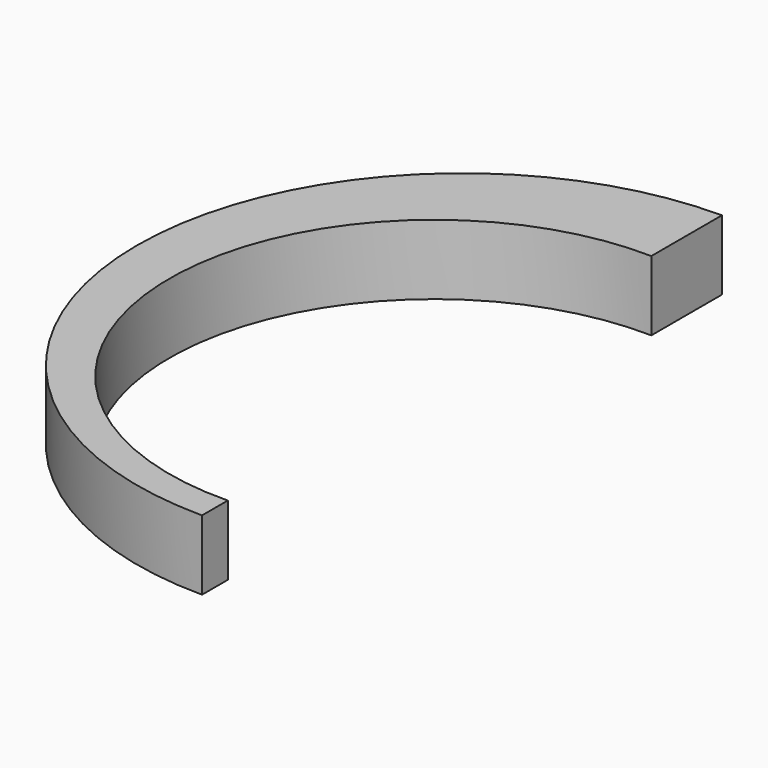
from build123d import *

# Parameters (mm, degrees)
F0_R     = 116.287792
F1_DEPTH = 25
F2_R     = 94.758514
F3_DEPTH = 25.001
F5_DEPTH = 25.001


with BuildPart() as f1:
    # F0 (on Top) → F1 (new body)
    with BuildSketch(Plane.XY):
        with Locations((-180.245414, -20.226402)):
            Circle(F0_R)
    extrude(amount=F1_DEPTH)

    # F2 (on face) → F3 (cut, through all)
    with BuildSketch(Plane.XY.offset(25)):
        with Locations((-182.132989, -30.261295)):
            Circle(F2_R)
    extrude(amount=-F3_DEPTH, mode=Mode.SUBTRACT)

    # F4 (on face) → F5 (cut, through all)
    with BuildSketch(Plane.XY.offset(25)):
        Polygon((-180.245414, 124.963261), (-180.245414, -20.226402), (-180.245414, -167.464018), (-41.918594, -167.464018), (-41.918594, 124.963261), align=None)
    extrude(amount=-F5_DEPTH, mode=Mode.SUBTRACT)


solid = f1.part
